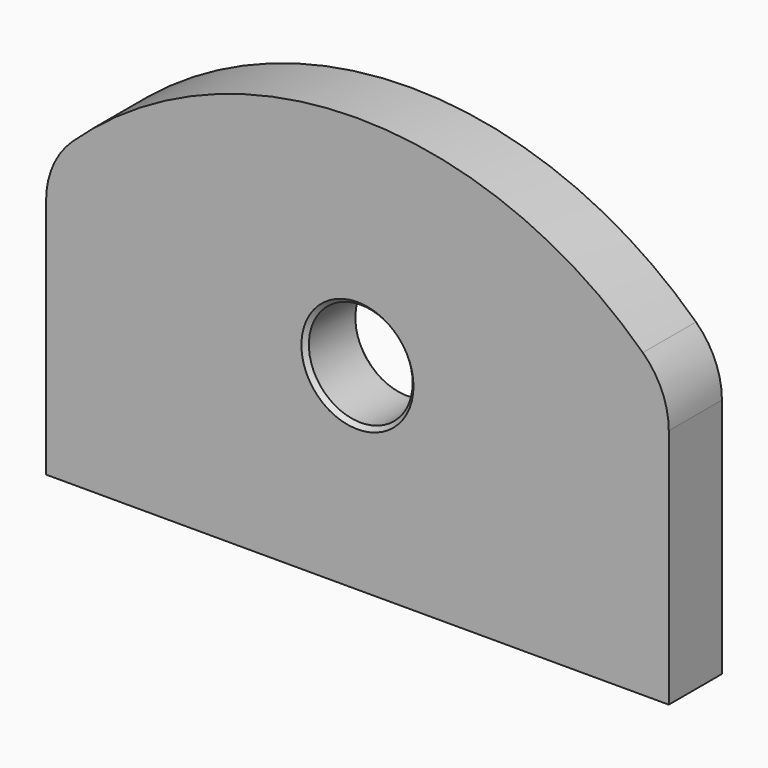
from build123d import *

# Parameters (mm, degrees)
F0_R     = 12.5
F1_DEPTH = 8
F2_SIZE  = 1


with BuildPart() as f1:
    # F0 (on Front) → F1 (new body, symmetric)
    with BuildSketch(Plane.XZ):
        with BuildLine():
            Line((-75, 10.5947501931), (-75, -47.5))
            Line((-75, -47.5), (75, -47.5))
            Line((75, -47.5), (75, 10.5947501931))
            ThreePointArc((75, 10.5947501931), (73.3711730709, 18.5004443435), (68.75, 25.1184377414))
            ThreePointArc((68.75, 25.1184377414), (0, 52.5), (-68.75, 25.1184377414))
            ThreePointArc((-68.75, 25.1184377414), (-73.3711730709, 18.5004443435), (-75, 10.5947501931))
        make_face()
        Circle(F0_R, mode=Mode.SUBTRACT)
    extrude(amount=F1_DEPTH, both=True)

    # F2
    f2_edges = [f1.edges().sort_by_distance(p)[0] for p in [
        (-12.5, -8, 0),
        (-12.5, 8, 0),
    ]]
    chamfer(f2_edges, length=F2_SIZE)


solid = f1.part
